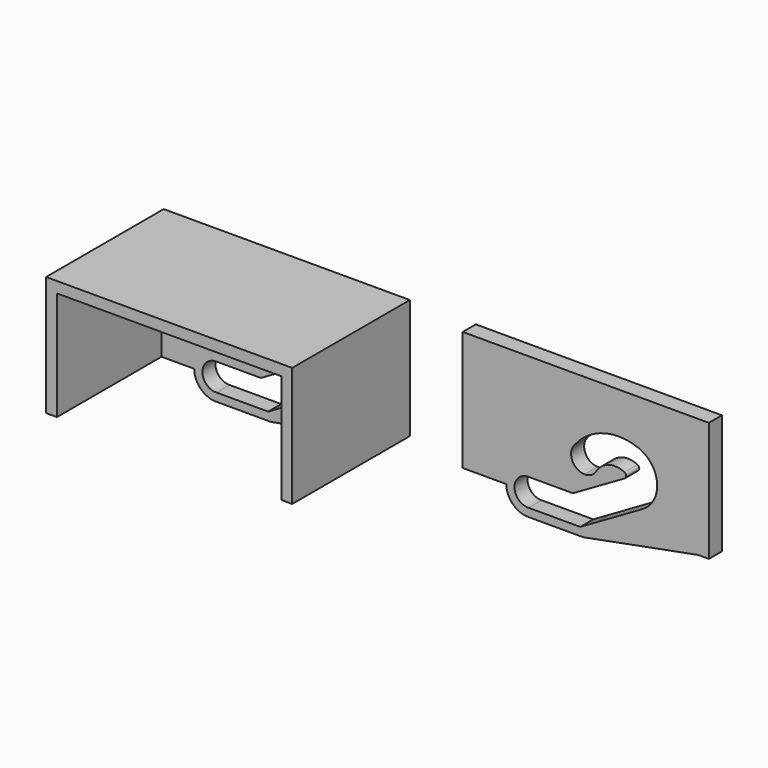
from build123d import *

# Parameters (mm, degrees)
F1_DEPTH = 3
F3_DEPTH = 27


with BuildPart() as f1:
    # F0 (on Front) → F1 (new body)
    with BuildSketch(Plane.XZ):
        Polygon((41.1902974087, 22), (41.1902974087, 20), (41.1902974087, 9.1783919701), (41.1902974087, 0), (43.1902974087, 0), (43.1902974087, 22), align=None)
        Polygon((-2, 0), (0, 0), (0, 2), (0, 20), (35.7004143298, 20), (41.1902974087, 20), (41.1902974087, 22), (37.7004143298, 22), (-2, 22), align=None)
        with BuildLine():
            Line((0, 2), (0, 0))
            Line((0, 0), (6, 0))
            ThreePointArc((6, 0), (7.2087367519, -2.8647734864), (10.104279485, -3.997824211))
            Line((10.104279485, -3.997824211), (20.104279485, -3.997824211))
            Line((20.104279485, -3.997824211), (41.1902974087, 0))
            Line((41.1902974087, 0), (41.1902974087, 9.1783919701))
            Line((41.1902974087, 9.1783919701), (41.1902974087, 20))
            Line((41.1902974087, 20), (35.7004143298, 20))
            Line((35.7004143298, 20), (0, 20))
            Line((0, 20), (0, 2))
        make_face()
        with BuildLine():
            ThreePointArc((10.104279485, -2.497824211), (7.5005440064, -0.0521510907), (10, 2.5))
            Line((10, 2.5), (18.232233047, 2.5))
            Line((18.232233047, 2.5), (20.3972965565, 3.75))
            Line((20.3972965565, 3.75), (27.6882979953, 7.9594616433))
            ThreePointArc((27.6882979953, 7.9594616433), (28.0138221364, 8.4791112344), (27.6882979953, 8.9987608255))
            ThreePointArc((27.6882979953, 8.9987608255), (24.8168817921, 9.2316055536), (22.5416471095, 7.4645303377))
            ThreePointArc((22.5416471095, 7.4645303377), (21.6296260249, 6.5744059129), (20.3973375331, 6.2494920422))
            ThreePointArc((20.3973375331, 6.2494920422), (18.2220625759, 7.5170147083), (18.2526502868, 10.0344537324))
            ThreePointArc((18.2526502868, 10.0344537324), (18.3755959613, 10.2203164748), (18.5146042787, 10.3944924937))
            ThreePointArc((18.5146042787, 10.3944924937), (23.82920943, 14.0238327144), (30.2590128732, 13.750398931))
            ThreePointArc((30.2590128732, 13.750398931), (33.6902974087, 9.1783919701), (31.0329918792, 4.1171975915))
            Line((31.0329918792, 4.1171975915), (22.8978534328, -0.5804461222))
            Line((22.8978534328, -0.5804461222), (22.3584956293, -0.8918988175))
            Line((22.3584956293, -0.8918988175), (20.732884347, -1.8306096546))
            Line((20.732884347, -1.8306096546), (20.5556407478, -1.9329591456))
            Line((20.5556407478, -1.9329591456), (19.5728437442, -2.500476244))
            Line((19.5728437442, -2.500476244), (10.104279485, -2.497824211))
        make_face(mode=Mode.SUBTRACT)
    extrude(amount=F1_DEPTH)


with BuildPart() as f2_1:
    # F2: copy of F1
    add(f1.part.moved(Location((57.3, 0, 0))))


with BuildPart() as f1_1:
    add(f1.part)

    # F0 (on Front) → F3 (join)
    with BuildSketch(Plane.XZ):
        Polygon((-2, 0), (0, 0), (0, 2), (0, 20), (35.7004143298, 20), (41.1902974087, 20), (41.1902974087, 22), (37.7004143298, 22), (-2, 22), align=None)
        Polygon((41.1902974087, 22), (41.1902974087, 20), (41.1902974087, 9.1783919701), (41.1902974087, 0), (43.1902974087, 0), (43.1902974087, 22), align=None)
    extrude(amount=F3_DEPTH)


solid = Compound([f2_1.part, f1_1.part])
